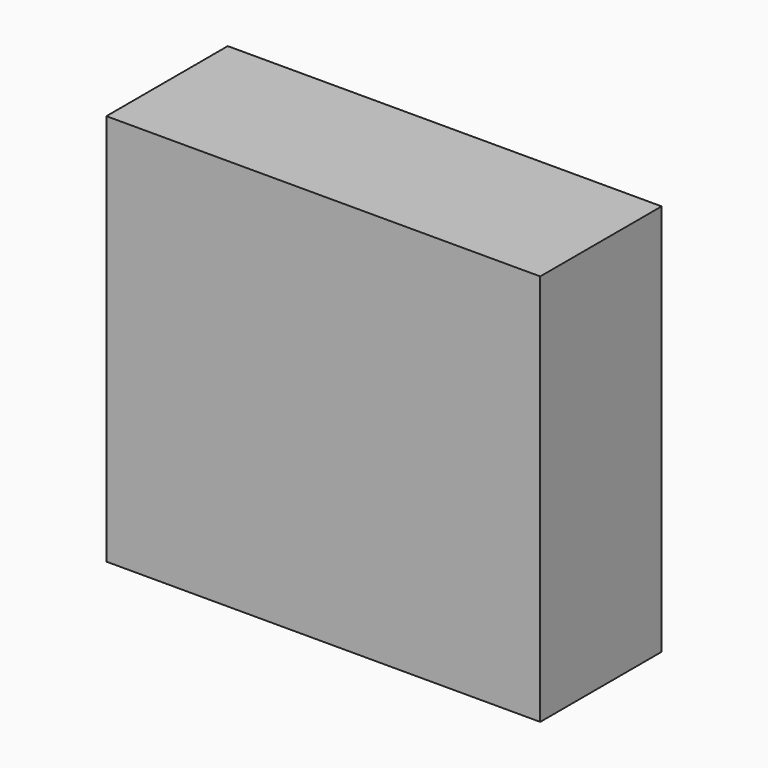
from build123d import *

# Parameters (mm, degrees)
F0_W     = 51.468716003
F0_H     = 46.5291272849
F1_DEPTH = 18
F3_D     = 6
F3_DEPTH = 12
F3_TIP   = 1.8025818571


with BuildPart() as f1:
    # F0 (on Front) → F1 (new body)
    with BuildSketch(Plane.XZ):
        with Locations((3.3435788937, 1.5291264281)):
            Rectangle(F0_W, F0_H)
    extrude(amount=F1_DEPTH)

    # F3
    with Locations(Plane(origin=(0, 0, -21.7354372144), x_dir=(1, 0, 0), z_dir=(0, 0, -1))):
        with Locations((2.2498408798, 9.1856829822)):
            Hole(F3_D / 2, depth=F3_DEPTH)
            with Locations((0, 0, -(F3_DEPTH + F3_TIP / 2))):  # 118° drill point
                Cone(0, F3_D / 2, F3_TIP, mode=Mode.SUBTRACT)


solid = f1.part
